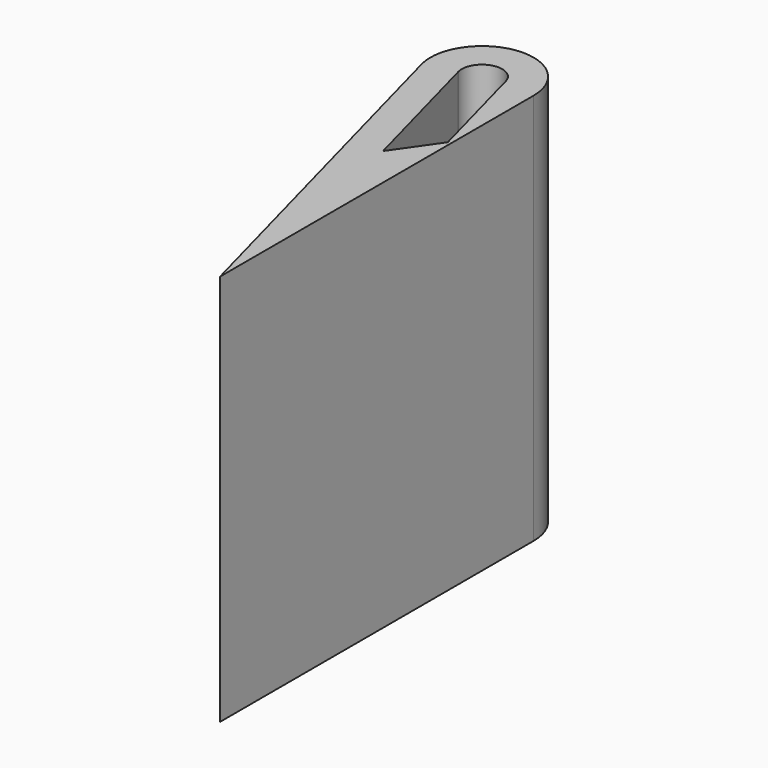
from build123d import *

# Parameters (mm, degrees)
F1_DEPTH = 25.4


with BuildPart() as f1:
    # F0 (on Top) → F1 (new body)
    with BuildSketch(Plane.XY):
        with BuildLine():
            Line((-6.574004, 24.534516), (0, 0))
            Line((0, 0), (0, 25.4))
            ThreePointArc((0, 25.4), (-3.78045, 28.715365), (-6.574004, 24.534516))
        make_face()
        with BuildLine():
            ThreePointArc((-4.620697, 25.097922), (-3.594908, 26.687752), (-2.04724, 25.599392))
            Line((-2.04724, 25.599392), (-0.198302, 18.69906))
            Line((-0.198302, 18.69906), (-2.155446, 15.897478))
            Line((-2.155446, 15.897478), (-4.600688, 25.023246))
            ThreePointArc((-4.600688, 25.023246), (-4.611242, 25.060436), (-4.620697, 25.097922))
        make_face(mode=Mode.SUBTRACT)
    extrude(amount=F1_DEPTH)


solid = f1.part
